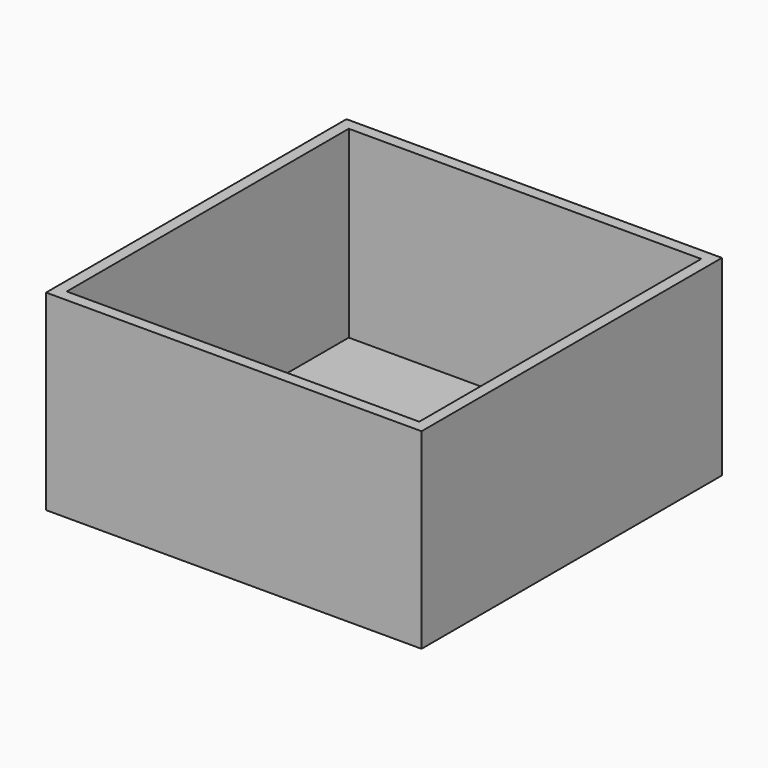
from build123d import *

# Parameters (mm, degrees)
BOX023_W     = 92
BOX023_H     = 92
BOX023_DEPTH = 80
BOX022_W     = 98
BOX022_H     = 98
BOX022_DEPTH = 50


with BuildPart() as cubo001:
    # Box023 → Box023 (new body)
    with BuildSketch(Plane(origin=(14, 14, 2), x_dir=(1, 0, 0), z_dir=(0, 0, 1))):
        with Locations((46, 46)):
            Rectangle(BOX023_W, BOX023_H)
    extrude(amount=BOX023_DEPTH)


with BuildPart() as obj1:
    # Box022 → Box022 (new body)
    with BuildSketch(Plane(origin=(11, 11, 0), x_dir=(1, 0, 0), z_dir=(0, 0, 1))):
        with Locations((49, 49)):
            Rectangle(BOX022_W, BOX022_H)
    extrude(amount=BOX022_DEPTH)

    # Cut007: cut Cubo001
    add(cubo001.part, mode=Mode.SUBTRACT)


with BuildPart() as obj1_1:
    # Cut007 placement: moved
    add(obj1.part.moved(Location((0, 0, 10))))


solid = obj1_1.part
